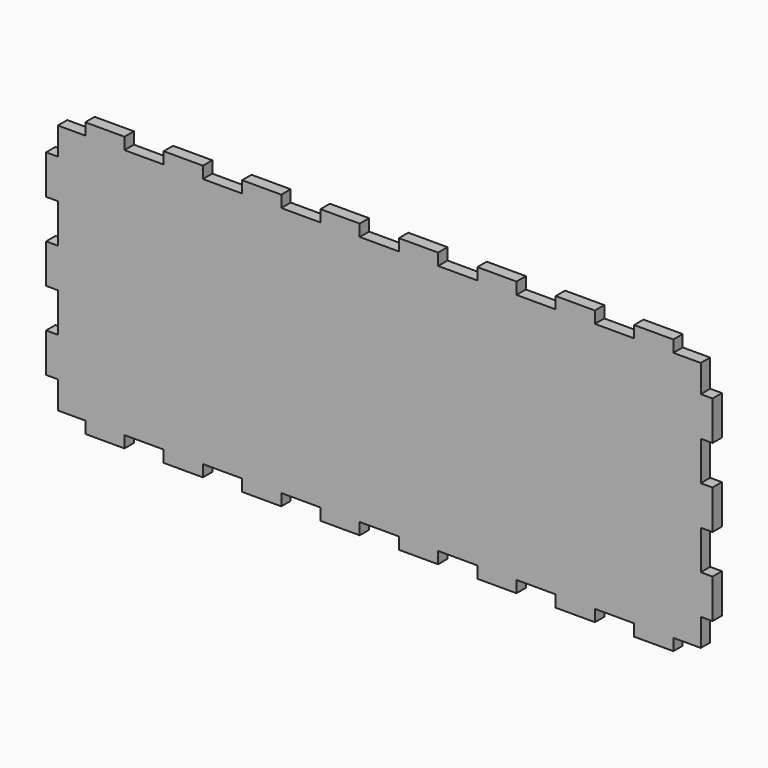
from build123d import *

# Parameters (mm, degrees)
F0_W     = 170
F0_H     = 70
F1_DEPTH = 3
F2_W     = 3
F2_H     = 3
F2_W_2   = 7
F2_W_3   = 10
F2_H_2   = 7
F3_DEPTH = 3.001


with BuildPart() as f1:
    # F0 (on Front) → F1 (new body)
    with BuildSketch(Plane.XZ):
        Rectangle(F0_W, F0_H)
    extrude(amount=F1_DEPTH)

    # F2 (on face) → F3 (cut, through all)
    with BuildSketch(Plane.XZ.offset(3)):
        with Locations((-83.5, -33.5)):
            Rectangle(F2_W, F2_H)
        with Locations((-78.5, -33.5)):
            Rectangle(F2_W_2, F2_H)
        Polygon((-85, -28), (-85, -32), (-82, -32), (-82, -25), (-85, -25), align=None)
        with Locations((-60, -33.5)):
            Rectangle(F2_W_3, F2_H)
        with Locations((-40, -33.5)):
            Rectangle(F2_W_3, F2_H)
        with Locations((-20, -33.5)):
            Rectangle(F2_W_3, F2_H)
        with Locations((0, -33.5)):
            Rectangle(F2_W_3, F2_H)
        with Locations((20, -33.5)):
            Rectangle(F2_W_3, F2_H)
        with Locations((40, -33.5)):
            Rectangle(F2_W_3, F2_H)
        with Locations((60, -33.5)):
            Rectangle(F2_W_3, F2_H)
        with Locations((83.5, -33.5)):
            Rectangle(F2_W, F2_H)
        Polygon((82, -32), (85, -32), (85, -28), (85, -25), (82, -25), align=None)
        with Locations((78.5, -33.5)):
            Rectangle(F2_W_2, F2_H)
        with Locations((-60, 33.5)):
            Rectangle(F2_W_3, F2_H)
        with Locations((-20, 33.5)):
            Rectangle(F2_W_3, F2_H)
        with Locations((-40, 33.5)):
            Rectangle(F2_W_3, F2_H)
        with Locations((0, 33.5)):
            Rectangle(F2_W_3, F2_H)
        with Locations((-83.5, 33.5)):
            Rectangle(F2_W, F2_H)
        with Locations((-83.5, 28.5)):
            Rectangle(F2_W, F2_H_2)
        with Locations((-78.5, 33.5)):
            Rectangle(F2_W_2, F2_H)
        with Locations((78.5, 33.5)):
            Rectangle(F2_W_2, F2_H)
        with Locations((83.5, 33.5)):
            Rectangle(F2_W, F2_H)
        with Locations((83.5, 28.5)):
            Rectangle(F2_W, F2_H_2)
        with Locations((20, 33.5)):
            Rectangle(F2_W_3, F2_H)
        with Locations((40, 33.5)):
            Rectangle(F2_W_3, F2_H)
        with Locations((60, 33.5)):
            Rectangle(F2_W_3, F2_H)
        Polygon((-82, 5), (-82, 15), (-85, 15), (-85, 12), (-85, 5), align=None)
        Polygon((-82, -15), (-82, -5), (-85, -5), (-85, -8), (-85, -15), align=None)
        Polygon((85, 12), (85, 15), (82, 15), (82, 5), (85, 5), align=None)
        Polygon((85, -8), (85, -5), (82, -5), (82, -15), (85, -15), align=None)
    extrude(amount=-F3_DEPTH, mode=Mode.SUBTRACT)


solid = f1.part
